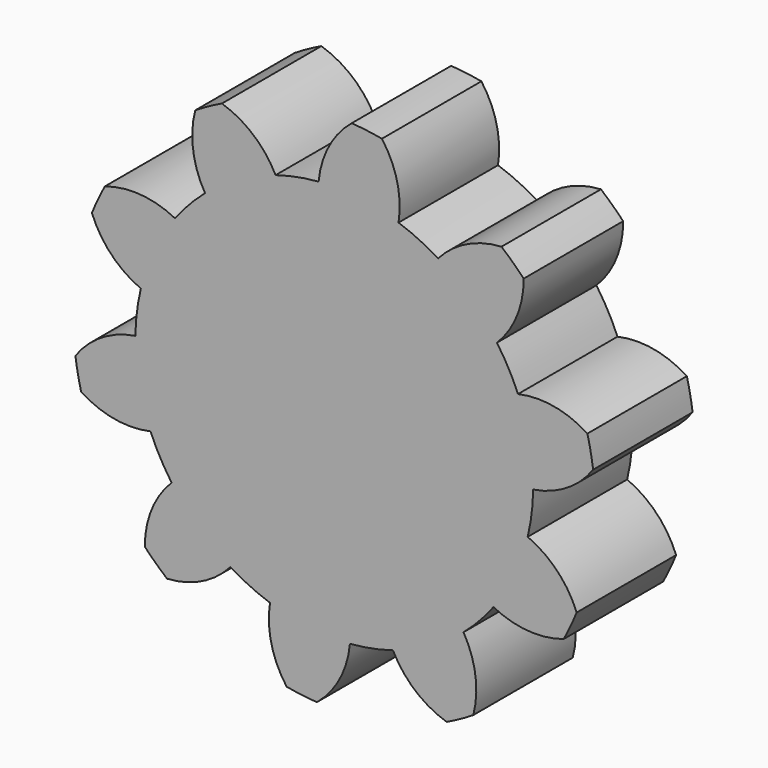
from build123d import *

# Parameters (mm, degrees)
F2_DEPTH = 5
F3_DEPTH = 5
F5_COUNT = 10
F5_ANGLE = 324


with BuildPart() as f2:
    # F1 (on Front) → F2 (new body)
    with BuildSketch(Plane.XZ):
        with BuildLine():
            ThreePointArc((7.9991114538, -0.1192306565), (7.9997778604, -0.0596169837), (8, 0))
            ThreePointArc((8, 0), (7.8460497183, 1.5618911033), (7.3901240454, 3.0636688127))
            ThreePointArc((7.3901240454, 3.0636688127), (-7.857471258, -1.5033780063), (7.9991114538, -0.1192306565))
        make_face()
    extrude(amount=F2_DEPTH)

    # F1 (on Front) → F3 (join)
    with BuildSketch(Plane.XZ):
        with BuildLine():
            ThreePointArc((7.3901240454, 3.0636688127), (7.8460497183, 1.5618911033), (8, 0))
            ThreePointArc((8, 0), (7.9997778604, -0.0596169837), (7.9991114538, -0.1192306565))
            ThreePointArc((7.9991114538, -0.1192306565), (9.3543332011, 0.3818427302), (10.4105264675, 1.3678226019))
            ThreePointArc((10.4105264675, 1.3678226019), (10.3129310261, 1.9731836333), (10.180165277, 2.5718154938))
            ThreePointArc((10.180165277, 2.5718154938), (8.8345975473, 3.0982639794), (7.3901240454, 3.0636688127))
        make_face()
    extrude(amount=F3_DEPTH)

    # F5: F2 ×10 about axis
    f5_axis = Axis((0, 6.1465417966, 0), (0, 1, 0))


with BuildPart() as f2_1:
    add(f2.part)
    for i in range(1, F5_COUNT):
        add(f2.part.rotate(f5_axis, i * F5_ANGLE / (F5_COUNT - 1)))


solid = f2_1.part
